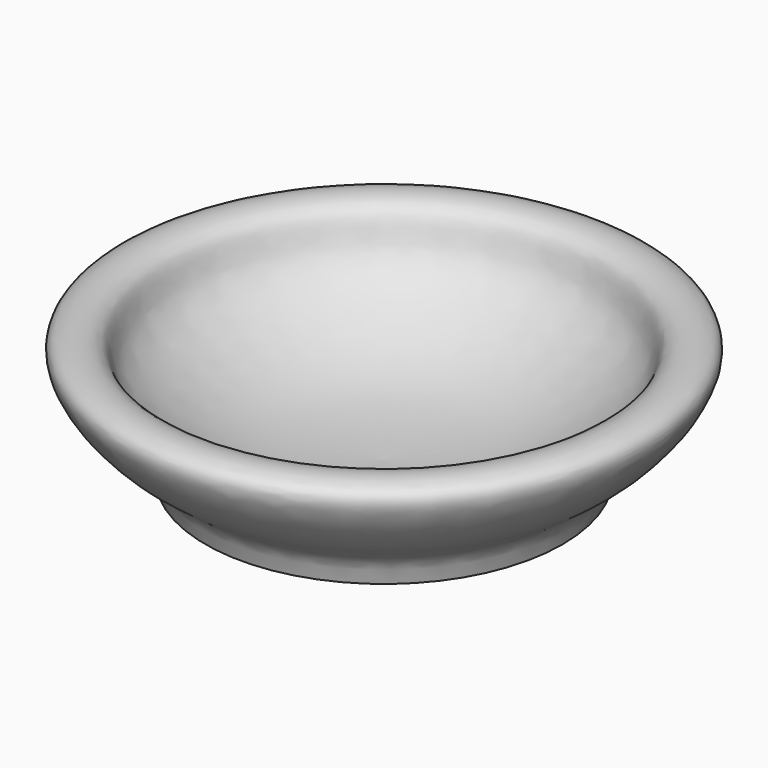
from build123d import *


with BuildPart() as f1:
    # F0 (on Front) → F1 (revolve)
    with BuildSketch(Plane.XZ):
        with BuildLine():
            add(Edge.make_bspline(
                [(48.7530790269, 0), (49.2838737698, 2.5150374389), (50.5382604441, 8.4586333221), (62.5071171432, 13.7865162122), (78.3192449553, 35.3318003193), (58.3216155623, 36.0891866108), (58.5491721248, 24.4707811318), (45.2055591326, 14.3165806195), (26.5032112515, 5.4103635441), (9.187899253, 4.7537923553), (0, 4.4054007158)],
                knots=[0, 0, 0, 0, 0.0889374693, 0.2101791283, 0.3531540965, 0.4588788521, 0.5571667041, 0.6851460958, 0.8329313413, 1, 1, 1, 1], degree=3))
            Line((0, 4.4054007158), (0, 0))
            Line((0, 0), (48.7530790269, 0))
        make_face()
    revolve(axis=Axis((0, 0, 2.2027003579), (0, 0, -1)))


solid = f1.part
